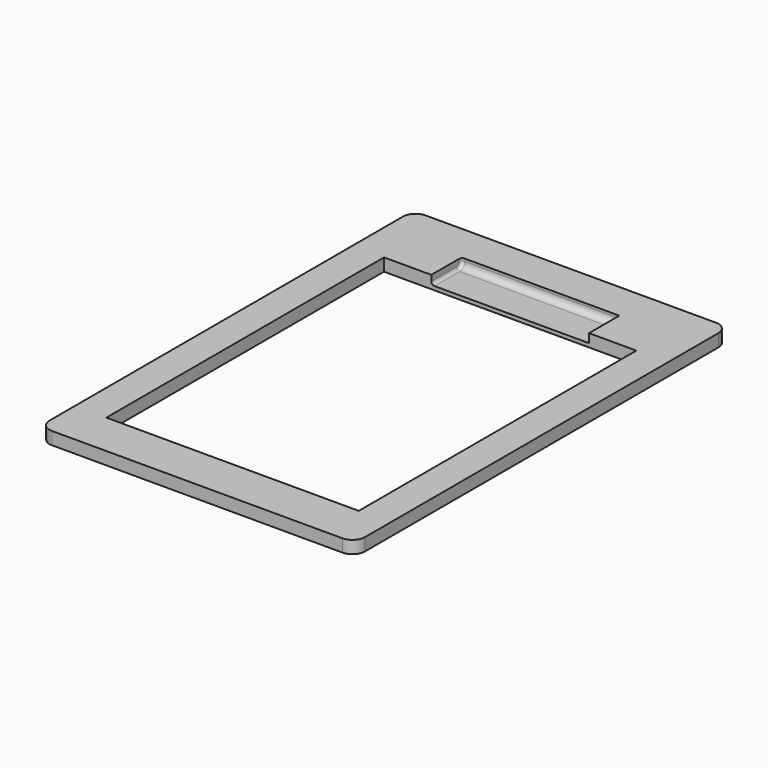
from build123d import *

# Parameters (mm, degrees)
SKETCH_W     = 50
SKETCH_H     = 74
SKETCH_W_2   = 40
SKETCH_H_2   = 55
PAD_DEPTH    = 2
SKETCH001_W  = 25
SKETCH001_H  = 6
POCKET_DEPTH = 1.4
FILLET003_R  = 1
FILLET004_R  = 2
FILLET006_R  = 0.5


with BuildPart() as part:
    # Sketch → Pad (new body)
    with BuildSketch(Plane.XY):
        with Locations((0, 2.5)):
            Rectangle(SKETCH_W, SKETCH_H)
        Rectangle(SKETCH_W_2, SKETCH_H_2, mode=Mode.SUBTRACT)
    extrude(amount=-PAD_DEPTH)

    # Sketch001 → Pocket (cut)
    with BuildSketch(Plane.XY):
        with Locations((0, 30.5)):
            Rectangle(SKETCH001_W, SKETCH001_H)
    extrude(amount=-POCKET_DEPTH, mode=Mode.SUBTRACT)

    # Fillet003
    fillet003_edges = [part.edges().sort_by_distance(p)[0] for p in [
        (0, 33.5, -1.4),
    ]]
    fillet(fillet003_edges, radius=FILLET003_R)

    # Fillet004
    fillet004_edges = [part.edges().sort_by_distance(p)[0] for p in [
        (-25, -34.5, -1),
        (25, -34.5, -1),
        (-25, 39.5, -1),
        (25, 39.5, -1),
    ]]
    fillet(fillet004_edges, radius=FILLET004_R)

    # Fillet006
    fillet006_edges = [part.edges().sort_by_distance(p)[0] for p in [
        (-12.5, 30, -1.4),
        (-12.5, 33.207107, -1.107107),
        (-12.5, 33.5, -0.2),
    ]]
    fillet(fillet006_edges, radius=FILLET006_R)


solid = part.part
